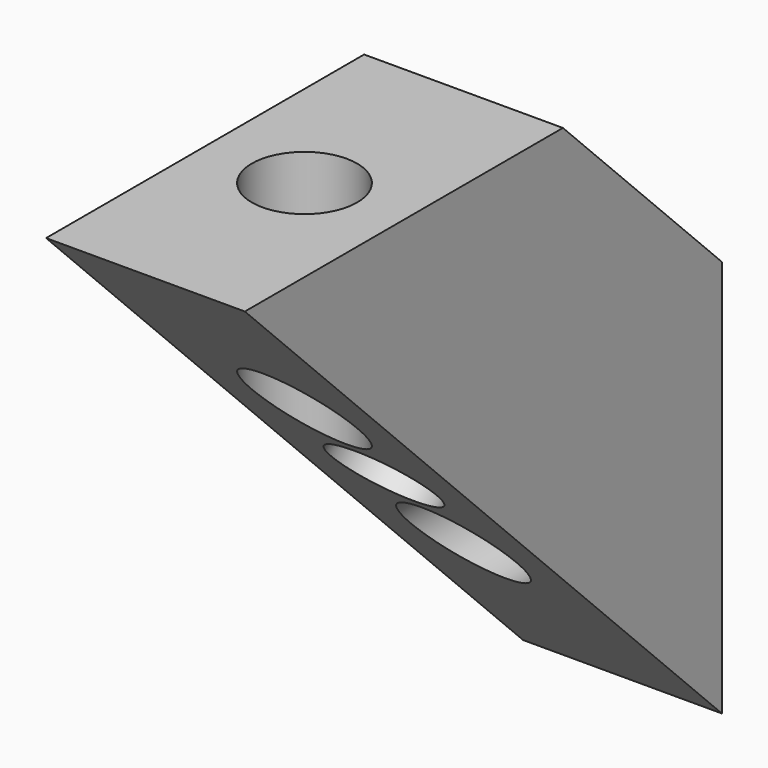
from build123d import *

# Parameters (mm, degrees)
PAD_DEPTH               = 5
SKETCH001_R             = 1.325
HOLE_DEPTH              = 15.0010000001
SKETCH002_R             = 1.325
HOLE001_DEPTH           = 17.6786695297
SKETCH003_R             = 1.325
HOLE002_DEPTH           = 15.001
BODY003_PLACEMENT_ANGLE = 90


with BuildPart() as part:
    # Sketch → Pad (new body)
    with BuildSketch(Plane.XZ.offset(-2.5)):
        Polygon((-10, 25.0000000001), (-19.9999999999, 25.0000000001), (-25, 20), (-25, 10), align=None)
    extrude(amount=PAD_DEPTH)

    # Sketch001 (on Face1 of Pad) → Hole (cut, through all)
    with BuildSketch(Plane(origin=(0, 0, 25.0000000001), x_dir=(-1, 0, 0), z_dir=(0, 0, 1))):
        with Locations((15, 0)):
            Circle(SKETCH001_R)
    extrude(amount=-HOLE_DEPTH, mode=Mode.SUBTRACT)

    # Sketch002 (on Face5 of Hole) → Hole001 (cut, through all)
    with BuildSketch(Plane(origin=(-22.5, 0, 22.5), x_dir=(-0.7071067812, 0, -0.7071067812), z_dir=(-0.7071067812, 0, 0.7071067812))):
        Circle(SKETCH002_R)
    extrude(amount=-HOLE001_DEPTH, mode=Mode.SUBTRACT)

    # Sketch003 (on Face7 of Hole001) → Hole002 (cut, through all)
    with BuildSketch(Plane(origin=(-25, 0, 0), x_dir=(0, 0, -1), z_dir=(-1, 0, 0))):
        with Locations((-15, 0)):
            Circle(SKETCH003_R)
    extrude(amount=-HOLE002_DEPTH, mode=Mode.SUBTRACT)


with BuildPart() as part_1:
    # Body003 placement: moved
    add(part.part.rotate(Axis((0, 0, 0), (0, 0, -1)), BODY003_PLACEMENT_ANGLE))


solid = part_1.part
